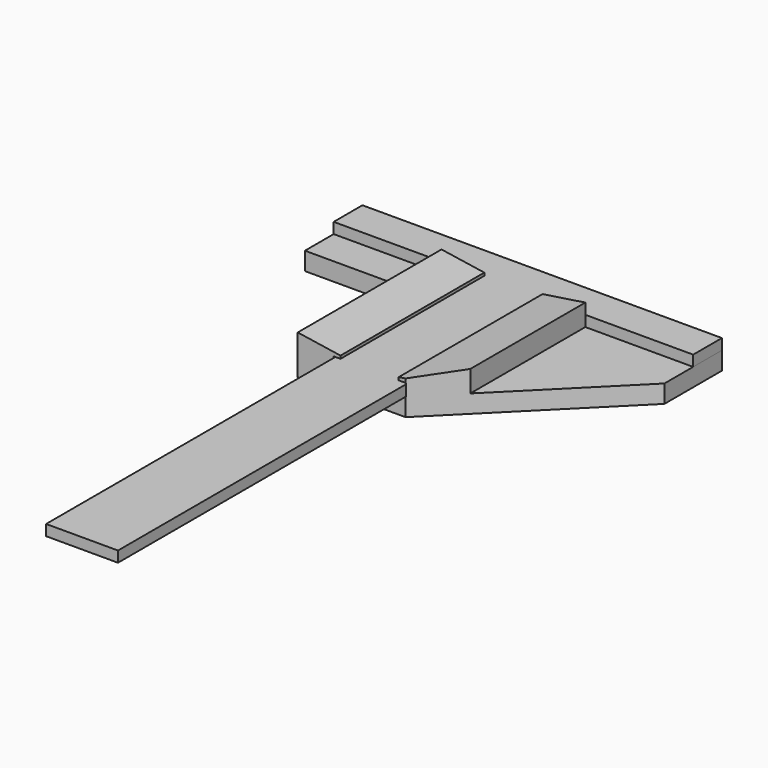
from build123d import *

# Parameters (mm, degrees)
PAD003_DEPTH    = 3
SKETCH009_R     = 1
POCKET001_DEPTH = 3
PAD004_DEPTH    = 5
PAD005_DEPTH    = 6
POCKET_DEPTH    = 50


with BuildPart() as teebody:
    # Sketch004 → Pad003 (new body)
    with BuildSketch(Plane.XY):
        Polygon((10, -160), (10, -10), (50, -10), (50, 0), (-50, 0), (-50, -10), (-10, -10), (-10, -160), align=None)
    extrude(amount=PAD003_DEPTH)

    # Sketch009 (on Face10 of Pad003) → Pocket001 (cut)
    with BuildSketch(Plane.XY.offset(3)):
        with Locations((-10, -11)):
            Circle(SKETCH009_R)
        with Locations((10, -11)):
            Circle(SKETCH009_R)
    extrude(amount=-POCKET001_DEPTH, mode=Mode.SUBTRACT)


with BuildPart() as basebody:
    # Sketch006 → Pad004 (new body)
    with BuildSketch(Plane.XY):
        Polygon((-50, 0), (50, 0), (50, -20), (10, -60), (-20, -60), (-20, -20), (-50, -20), align=None)
    extrude(amount=-PAD004_DEPTH)

    # Sketch008 → Pad005 (join)
    with BuildSketch(Plane.XY):
        Polygon((-20, -10), (20, -10), (20, -50), (10, -60), (-20, -60), align=None)
    extrude(amount=PAD005_DEPTH)

    # Sketch (on Face15 of Pad005) → Pocket (cut)
    with BuildSketch(Plane.XZ.offset(60)):
        Polygon((10.1, 3.4), (10.1, 0), (-10.1, 0), (-10.1, 3.4), (-8.1, 3.4), (-8.1, 4.2), (-20, 6), (-20, 8), (20, 8), (20, 6), (8.1, 4.2), (8.1, 3.4), align=None)
    extrude(amount=-POCKET_DEPTH, mode=Mode.SUBTRACT)


solid = Compound([teebody.part, basebody.part])
